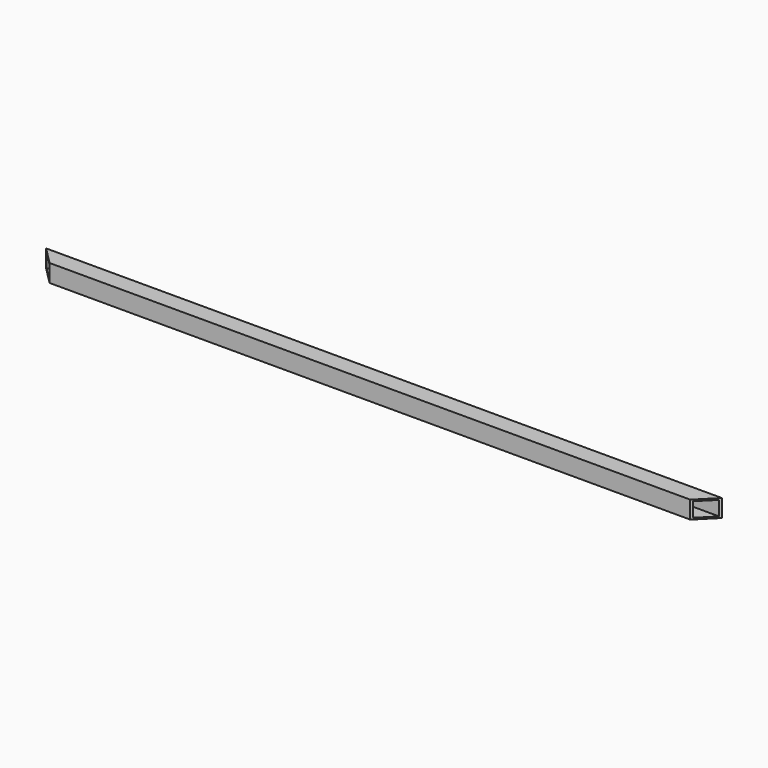
from build123d import *

# Parameters (mm, degrees)
SKETCH_W       = 31.75
SKETCH_H       = 31.75
SKETCH_W_2     = 26.2128
SKETCH_H_2     = 26.2128
PAD_DEPTH      = 609.6
PAD_DEPTH_BACK = 609.6
POCKET_DEPTH   = 31.75


with BuildPart() as part:
    # Sketch → Pad (new body, two sides)
    with BuildSketch(Plane.YZ) as pad_sk:
        Rectangle(SKETCH_W, SKETCH_H)
        Rectangle(SKETCH_W_2, SKETCH_H_2, mode=Mode.SUBTRACT)
    extrude(amount=PAD_DEPTH)
    extrude(pad_sk.sketch, amount=-PAD_DEPTH_BACK)

    # Sketch001 → Pocket (cut)
    with BuildSketch(Plane(origin=(0, 0, 15.875), x_dir=(0, -1, 0), z_dir=(0, 0, 1))):
        Polygon((15.875, 609.6), (-15.875, 609.6), (15.875, 577.85), align=None)
    pocket = extrude(amount=-POCKET_DEPTH, mode=Mode.SUBTRACT)

    # Mirrored: Pocket across Sketch001 H_Axis
    add(pocket.mirror(Plane(origin=(0, 0, 15.875), x_dir=(0, 0, 1), z_dir=(1, 0, 0))), mode=Mode.SUBTRACT)


solid = part.part
